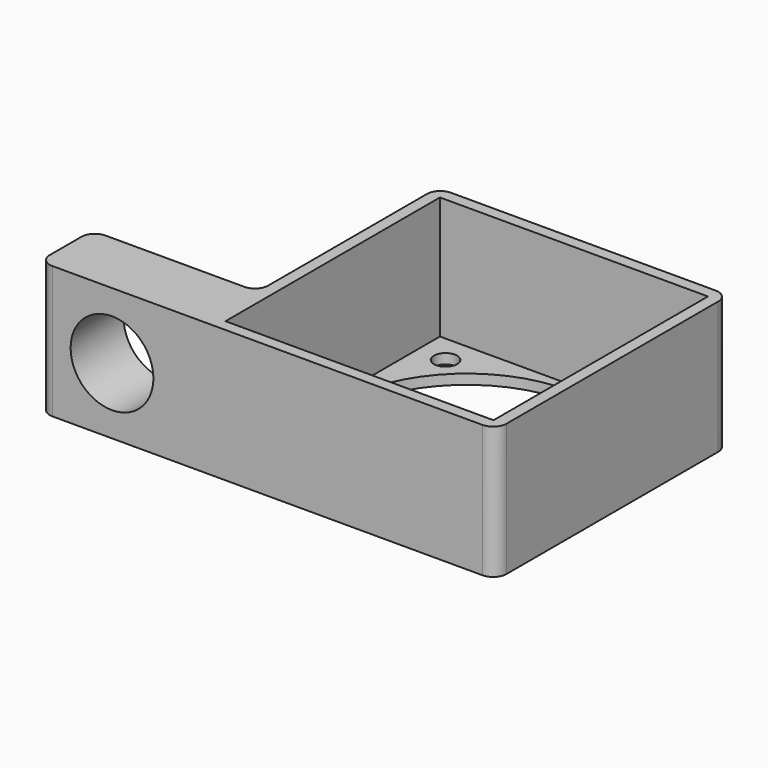
from build123d import *

# Parameters (mm, degrees)
F0_W     = 44
F0_H     = 44
F0_W_2   = 40.5
F0_H_2   = 40.5
F1_DEPTH = 20
F0_R     = 1.75
F0_R_2   = 19
F2_DEPTH = 1.5
F3_W     = 10
F3_H     = 20
F4_DEPTH = 25
F5_R     = 6.25
F6_DEPTH = 10
F7_R     = 2


with BuildPart() as f1:
    # F0 (on Top) → F1 (new body)
    with BuildSketch(Plane.XY):
        Rectangle(F0_W, F0_H)
        Rectangle(F0_W_2, F0_H_2, mode=Mode.SUBTRACT)
    extrude(amount=F1_DEPTH)

    # F0 (on Top) → F2 (join)
    with BuildSketch(Plane.XY):
        Rectangle(F0_W_2, F0_H_2)
        with Locations((-16, -16)):
            Circle(F0_R, mode=Mode.SUBTRACT)
        with Locations((16, -16)):
            Circle(F0_R, mode=Mode.SUBTRACT)
        with Locations((-16, 16)):
            Circle(F0_R, mode=Mode.SUBTRACT)
        Circle(F0_R_2, mode=Mode.SUBTRACT)
        with Locations((16, 16)):
            Circle(F0_R, mode=Mode.SUBTRACT)
    extrude(amount=F2_DEPTH)

    # F3 (on face) → F4 (join)
    with BuildSketch(Plane(origin=(-22, 0, 0), x_dir=(0, -1, 0), z_dir=(-1, 0, 0))):
        with Locations((17, 10)):
            Rectangle(F3_W, F3_H)
    extrude(amount=F4_DEPTH)

    # F5 (on face) → F6 (cut)
    with BuildSketch(Plane(origin=(0, -12, 0), x_dir=(-1, 0, 0), z_dir=(0, 1, 0))):
        with Locations((36, 10)):
            Circle(F5_R)
    extrude(amount=-F6_DEPTH, mode=Mode.SUBTRACT)

    # F7
    f7_edges = [f1.edges().sort_by_distance(p)[0] for p in [
        (-22, -12, 10),
        (-22, 22, 10),
        (22, 22, 10),
        (22, -22, 10),
        (-47, -12, 10),
        (-47, -22, 10),
    ]]
    fillet(f7_edges, radius=F7_R)


solid = f1.part
